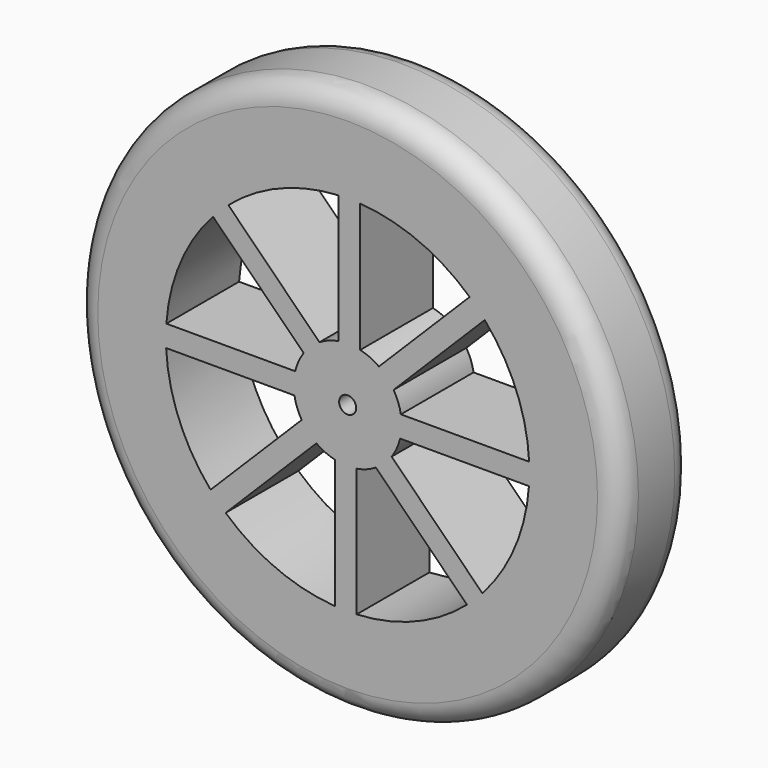
from build123d import *

# Parameters (mm, degrees)
F0_R     = 152.4
F0_R_2   = 4.7625
F1_DEPTH = 50.8
F2_R     = 12.7


with BuildPart() as f1:
    # F0 (on Front) → F1 (new body)
    with BuildSketch(Plane.XZ):
        with Locations((-53.951404, 5.726499)):
            Circle(F0_R)
        with BuildLine():
            Line((-122.156733, -69.576842), (-71.433156, -18.853265))
            ThreePointArc((-71.433156, -18.853265), (-66.435836, -21.731021), (-60.982177, -23.605133))
            Line((-60.982177, -23.605133), (-60.982177, -95.629943))
            ThreePointArc((-60.982177, -95.629943), (-93.761061, -87.749441), (-122.156733, -69.576842))
        make_face(mode=Mode.SUBTRACT)
        with BuildLine():
            Line((-155.427358, 0.707446), (-83.693387, 0.707446))
            ThreePointArc((-83.693387, 0.707446), (-82.194629, -4.861074), (-79.663508, -10.04259))
            Line((-79.663508, -10.04259), (-130.592739, -60.971821))
            ThreePointArc((-130.592739, -60.971821), (-148.198553, -32.221294), (-155.427358, 0.707446))
        make_face(mode=Mode.SUBTRACT)
        with BuildLine():
            Line((-48.932352, -95.749455), (-48.932352, -24.015484))
            ThreePointArc((-48.932352, -24.015484), (-43.363832, -22.516726), (-38.182316, -19.985605))
            Line((-38.182316, -19.985605), (12.746915, -70.914836))
            ThreePointArc((12.746915, -70.914836), (-16.003612, -88.52065), (-48.932352, -95.749455))
        make_face(mode=Mode.SUBTRACT)
        with BuildLine():
            Line((21.351936, -62.47883), (-29.371641, -11.755253))
            ThreePointArc((-29.371641, -11.755253), (-26.493885, -6.757933), (-24.619772, -1.304274))
            Line((-24.619772, -1.304274), (47.405037, -1.304274))
            ThreePointArc((47.405037, -1.304274), (39.524535, -34.083158), (21.351936, -62.47883))
        make_face(mode=Mode.SUBTRACT)
        with BuildLine():
            ThreePointArc((-78.531168, 23.20825), (-81.408924, 18.21093), (-83.283036, 12.757272))
            Line((-83.283036, 12.757272), (-155.307846, 12.757272))
            ThreePointArc((-155.307846, 12.757272), (-147.427344, 45.536155), (-129.254745, 73.931827))
            Line((-129.254745, 73.931827), (-78.531168, 23.20825))
        make_face(mode=Mode.SUBTRACT)
        with BuildLine():
            ThreePointArc((-120.649724, 82.367833), (-91.899197, 99.973647), (-58.970457, 107.202452))
            Line((-58.970457, 107.202452), (-58.970457, 35.468481))
            ThreePointArc((-58.970457, 35.468481), (-64.538977, 33.969723), (-69.720493, 31.438602))
            Line((-69.720493, 31.438602), (-120.649724, 82.367833))
        make_face(mode=Mode.SUBTRACT)
        with Locations((-53.951404, 5.726499)):
            Circle(F0_R_2, mode=Mode.SUBTRACT)
        with BuildLine():
            ThreePointArc((-24.209422, 10.745551), (-25.70818, 16.314071), (-28.239301, 21.495587))
            Line((-28.239301, 21.495587), (22.68993, 72.424818))
            ThreePointArc((22.68993, 72.424818), (40.295744, 43.674291), (47.524549, 10.745551))
            Line((47.524549, 10.745551), (-24.209422, 10.745551))
        make_face(mode=Mode.SUBTRACT)
        with BuildLine():
            Line((14.253924, 81.029839), (-36.469653, 30.306262))
            ThreePointArc((-36.469653, 30.306262), (-41.466973, 33.184018), (-46.920631, 35.058131))
            Line((-46.920631, 35.058131), (-46.920631, 107.08294))
            ThreePointArc((-46.920631, 107.08294), (-14.141748, 99.202438), (14.253924, 81.029839))
        make_face(mode=Mode.SUBTRACT)
    extrude(amount=F1_DEPTH)

    # F2
    f2_edges = [f1.edges().sort_by_distance(p)[0] for p in [
        (-206.351404, -50.8, 5.726499),
        (-206.351404, 0, 5.726499),
    ]]
    fillet(f2_edges, radius=F2_R)


solid = f1.part
